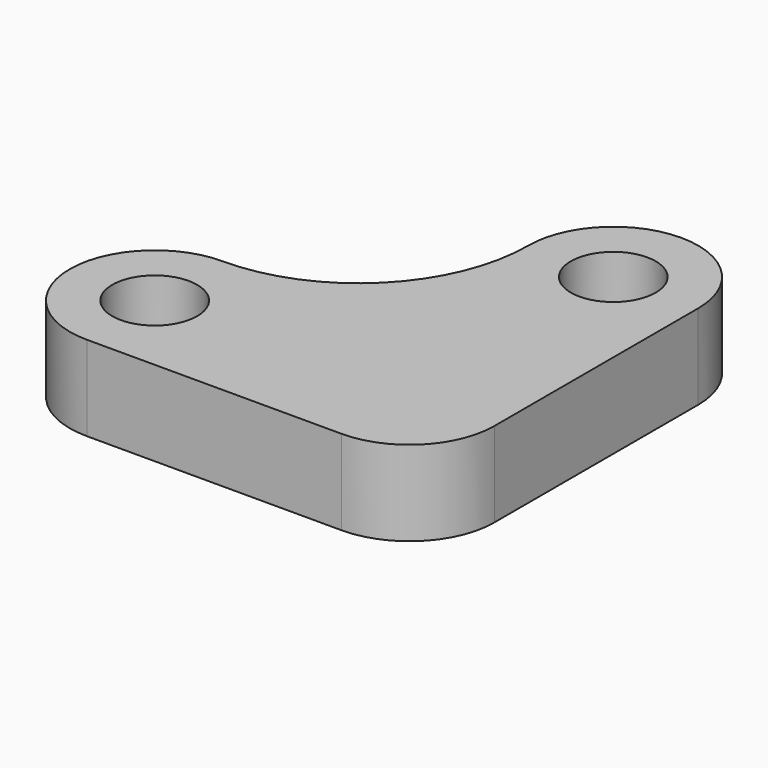
from build123d import *

# Parameters (mm, degrees)
F0_R     = 2.5
F1_DEPTH = 5


with BuildPart() as f1:
    # F0 (on Top) → F1 (new body)
    with BuildSketch(Plane.XY):
        with BuildLine():
            ThreePointArc((0, -5), (3.535534, -3.535534), (5, 0))
            Line((5, 0), (5, 15))
            ThreePointArc((5, 15), (0, 20), (-5, 15))
            ThreePointArc((-5, 15), (-7.928932, 7.928932), (-15, 5))
            ThreePointArc((-15, 5), (-20, 0), (-15, -5))
            Line((-15, -5), (0, -5))
        make_face()
        with Locations((-15, 0)):
            Circle(F0_R, mode=Mode.SUBTRACT)
        with Locations((0, 15)):
            Circle(F0_R, mode=Mode.SUBTRACT)
    extrude(amount=F1_DEPTH)


solid = f1.part
